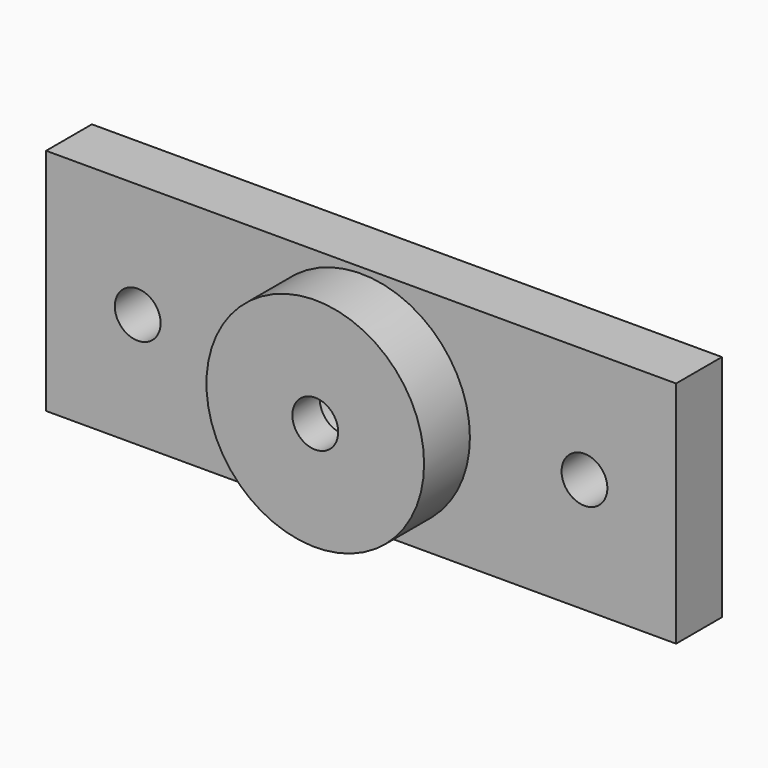
from build123d import *

# Parameters (mm, degrees)
F0_W     = 55
F0_H     = 5
F1_DEPTH = 20
F2_R     = 9.5
F3_DEPTH = 5
F4_R     = 2
F5_DEPTH = 10.001
F6_R     = 4.5
F7_DEPTH = 7
F8_R     = 2
F9_DEPTH = 25


with BuildPart() as f1:
    # F0 (on Top) → F1 (new body)
    with BuildSketch(Plane.XY):
        with Locations((15.134409, 2.5)):
            Rectangle(F0_W, F0_H)
    extrude(amount=F1_DEPTH)

    # F2 (on face) → F3 (join)
    with BuildSketch(Plane.XZ):
        with Locations((15.134409, 10)):
            Circle(F2_R)
    extrude(amount=F3_DEPTH)

    # F4 (on face) → F5 (cut, through all)
    with BuildSketch(Plane.XZ.offset(5)):
        with Locations((15.134409, 10)):
            Circle(F4_R)
    extrude(amount=-F5_DEPTH, mode=Mode.SUBTRACT)

    # F6 (on face) → F7 (cut)
    with BuildSketch(Plane(origin=(0, 5, 0), x_dir=(-1, 0, 0), z_dir=(0, 1, 0))):
        with Locations((-15.134409, 10)):
            Circle(F6_R)
    extrude(amount=-F7_DEPTH, mode=Mode.SUBTRACT)

    # F8 (on face) → F9 (cut)
    with BuildSketch(Plane.XZ):
        with Locations((-4.365591, 10)):
            Circle(F8_R)
        with Locations((34.634409, 10)):
            Circle(F8_R)
    extrude(amount=-F9_DEPTH, mode=Mode.SUBTRACT)


solid = f1.part
